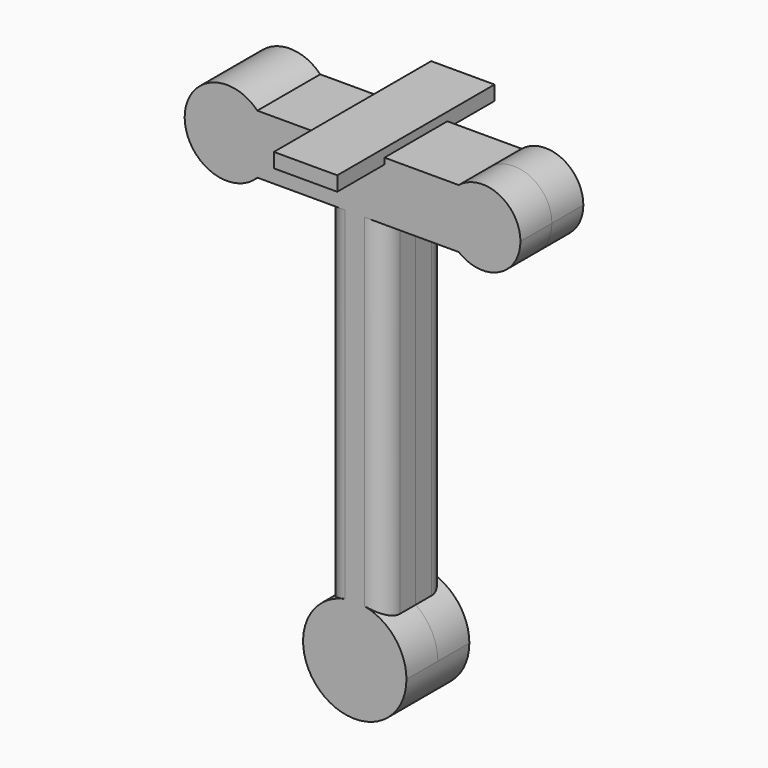
from build123d import *

# Parameters (mm, degrees)
F1_DEPTH = 5.08
F2_R     = 2.54
F4_DEPTH = 12.7


with BuildPart() as f1:
    # F0 (on Front) → F1 (new body, symmetric)
    with BuildSketch(Plane.XZ):
        with BuildLine():
            Line((-8.2382504713, 0), (0.5414021805, 0))
            Line((0.5414021805, 0), (8.1614021805, 0))
            Line((8.1614021805, 0), (17.7880630044, 0))
            ThreePointArc((17.7880630044, 0), (15.9663522633, 3.81), (17.7880630044, 7.62))
            Line((17.7880630044, 7.62), (-8.2382504713, 7.62))
            ThreePointArc((-8.2382504713, 7.62), (-7.0931889129, 5.8659318907), (-6.6918599137, 3.81))
            ThreePointArc((-6.6918599137, 3.81), (-7.0931889129, 1.7540681093), (-8.2382504713, 0))
        make_face()
        with BuildLine():
            Line((8.1614021805, 0), (0.5414021805, 0))
            Line((0.5414021805, 0), (0.5414021805, -45.3169520795))
            ThreePointArc((0.5414021805, -45.3169520795), (4.3514021805, -44.1231808098), (8.1614021805, -45.3169520795))
            Line((8.1614021805, -45.3169520795), (8.1614021805, 0))
        make_face()
        with BuildLine():
            ThreePointArc((8.1614021805, -45.3169520795), (4.3514021805, -44.1231808098), (0.5414021805, -45.3169520795))
            Line((0.5414021805, -45.3169520795), (0.5414021805, -50.8))
            Line((0.5414021805, -50.8), (8.1614021805, -50.8))
            Line((8.1614021805, -50.8), (8.1614021805, -45.3169520795))
        make_face()
        with BuildLine():
            Line((0.5414021805, -50.8), (0.5414021805, -45.3169520795))
            ThreePointArc((0.5414021805, -45.3169520795), (1.2577608483, -56.716865539), (11.0282213707, -50.8))
            ThreePointArc((11.0282213707, -50.8), (10.2682677195, -47.7063586679), (8.1614021805, -45.3169520795))
            Line((8.1614021805, -45.3169520795), (8.1614021805, -50.8))
            Line((8.1614021805, -50.8), (0.5414021805, -50.8))
        make_face()
        with BuildLine():
            ThreePointArc((-8.2382504713, 7.62), (-17.6253357253, 3.81), (-8.2382504713, 0))
            Line((-8.2382504713, 0), (-12.1585978195, 0))
            Line((-12.1585978195, 0), (-12.1585978195, 7.62))
            Line((-12.1585978195, 7.62), (-8.2382504713, 7.62))
        make_face()
        with BuildLine():
            Line((-12.1585978195, 0), (-8.2382504713, 0))
            ThreePointArc((-8.2382504713, 0), (-7.0931889129, 1.7540681093), (-6.6918599137, 3.81))
            ThreePointArc((-6.6918599137, 3.81), (-7.0931889129, 5.8659318907), (-8.2382504713, 7.62))
            Line((-8.2382504713, 7.62), (-12.1585978195, 7.62))
            Line((-12.1585978195, 7.62), (-12.1585978195, 0))
        make_face()
        with BuildLine():
            ThreePointArc((17.7880630044, 7.62), (15.9663522633, 3.81), (17.7880630044, 0))
            Line((17.7880630044, 0), (20.8614021805, 0))
            Line((20.8614021805, 0), (20.8614021805, 7.62))
            Line((20.8614021805, 7.62), (17.7880630044, 7.62))
        make_face()
        with BuildLine():
            Line((20.8614021805, 0), (17.7880630044, 0))
            ThreePointArc((17.7880630044, 0), (22.9729614399, -0.6062009902), (25.7564520977, 3.81))
            ThreePointArc((25.7564520977, 3.81), (22.9729614399, 8.2262009902), (17.7880630044, 7.62))
            Line((17.7880630044, 7.62), (20.8614021805, 7.62))
            Line((20.8614021805, 7.62), (20.8614021805, 0))
        make_face()
    extrude(amount=F1_DEPTH, both=True)

    # F2
    f2_edges = [f1.edges().sort_by_distance(p)[0] for p in [
        (8.161402, -5.08, -22.658476),
        (0.541402, -5.08, -22.658476),
        (0.541402, 5.08, -22.658476),
        (8.161402, 5.08, -22.658476),
    ]]
    fillet(f2_edges, radius=F2_R)


with BuildPart() as f4:
    # F3 (on Front) → F4 (new body, symmetric)
    with BuildSketch(Plane.XZ):
        Polygon((8.1881596717, 8.5223685753), (8.1881596717, 8.7033780292), (0, 8.7033780292), align=None)
        Polygon((8.1881596717, 6.8313037045), (8.1881596717, 8.5223685753), (0, 8.7033780292), (0, 6.8313037045), align=None)
    extrude(amount=F4_DEPTH, both=True)


solid = Compound([f1.part, f4.part])
